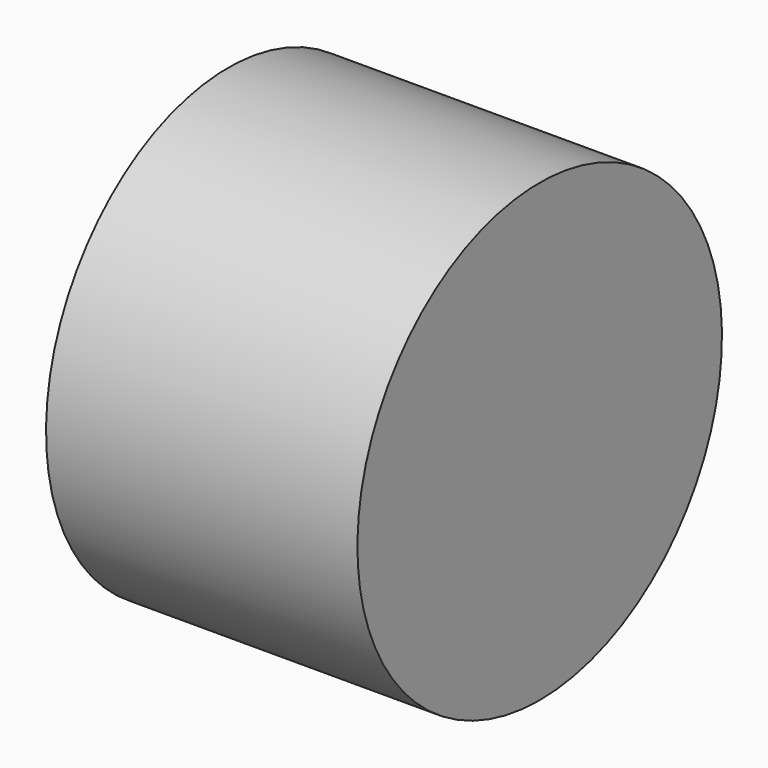
from build123d import *

# Parameters (mm, degrees)
CYLINDER073_R     = 1.25
CYLINDER073_DEPTH = 5
CYLINDER074_R     = 3
CYLINDER074_DEPTH = 4.1


with BuildPart() as b_w015:
    # Cylinder073 → Cylinder073 (new body)
    with BuildSketch(Plane(origin=(2, 16, 7), x_dir=(0, 0, 1), z_dir=(-1, 0, 0))):
        Circle(CYLINDER073_R)
    extrude(amount=CYLINDER073_DEPTH)


with BuildPart() as cut037:
    # Cylinder074 → Cylinder074 (new body)
    with BuildSketch(Plane(origin=(-1, 16, 7), x_dir=(0, 0, -1), z_dir=(1, 0, 0))):
        Circle(CYLINDER074_R)
    extrude(amount=CYLINDER074_DEPTH)

    # Cut037: cut B_W015
    add(b_w015.part, mode=Mode.SUBTRACT)


solid = cut037.part
